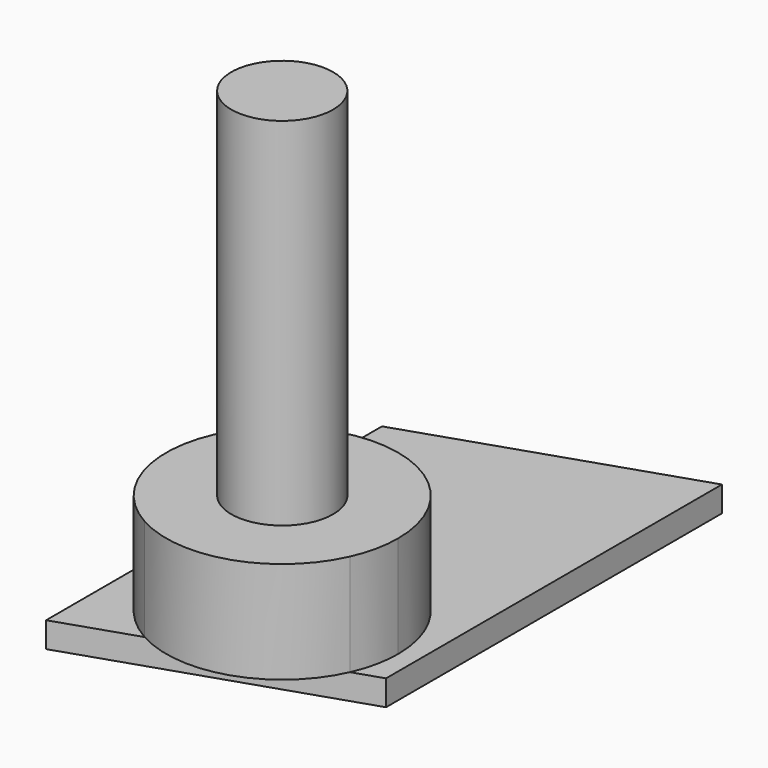
from build123d import *

# Parameters (mm, degrees)
F1_DEPTH = 1.5875
F3_DEPTH = 6.35
F4_R     = 3.175
F5_DEPTH = 28.575


with BuildPart() as f1:
    # F0 (on Top) → F1 (new body)
    with BuildSketch(Plane.XY):
        Polygon((8.382, -10.31875), (8.382, 15.875), (-8.382, 10.31875), (-8.382, -15.875), align=None)
    extrude(amount=-F1_DEPTH)

    # F2 (on face) → F3 (join)
    with BuildSketch(Plane.XY):
        with BuildLine():
            Line((6.600987, -10.909048), (-3.519459, -14.263362))
            ThreePointArc((-3.519459, -14.263362), (2.277457, -14.808913), (6.600987, -10.909048))
        make_face()
        with BuildLine():
            ThreePointArc((6.600987, -10.909048), (7.0777, -9.457135), (7.239, -7.9375))
            ThreePointArc((7.239, -7.9375), (-3.66918, -1.697288), (-3.519459, -14.263362))
            Line((-3.519459, -14.263362), (6.600987, -10.909048))
        make_face()
    extrude(amount=F3_DEPTH)

    # F4 (on Top) → F5 (join)
    with BuildSketch(Plane.XY):
        with Locations((0, -7.9375)):
            Circle(F4_R)
    extrude(amount=F5_DEPTH)


solid = f1.part
